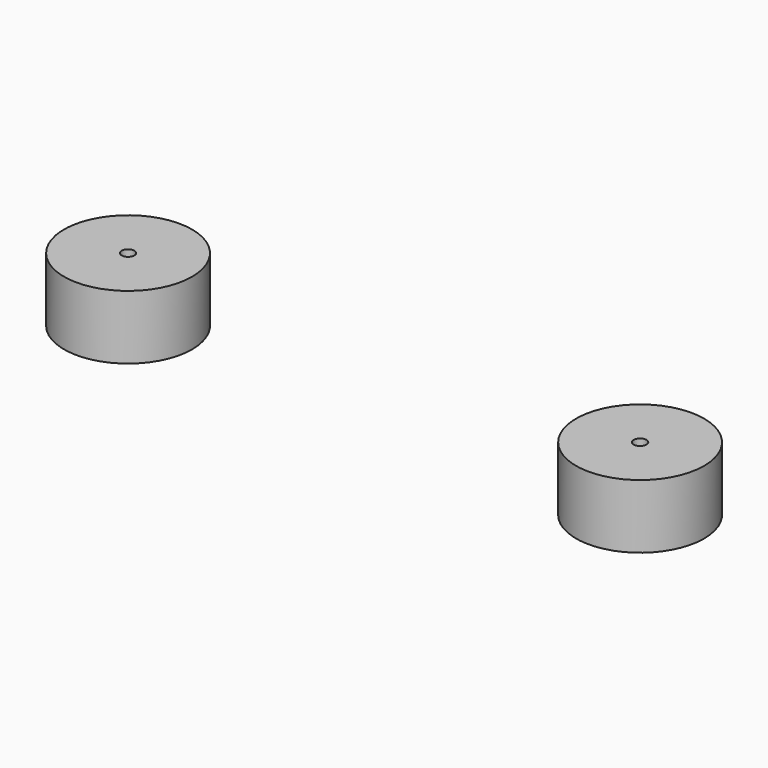
from build123d import *

# Parameters (mm, degrees)
F0_R     = 10
F0_R_2   = 1
F1_DEPTH = 10


with BuildPart() as f1:
    # F0 (on Top) → F1 (new body)
    with BuildSketch(Plane.XY):
        with Locations((-40, 0)):
            Circle(F0_R)
        with Locations((-40, 0)):
            Circle(F0_R_2, mode=Mode.SUBTRACT)
        with Locations((40, 0)):
            Circle(F0_R)
        with Locations((40, 0)):
            Circle(F0_R_2, mode=Mode.SUBTRACT)
    extrude(amount=-F1_DEPTH)


solid = f1.part
